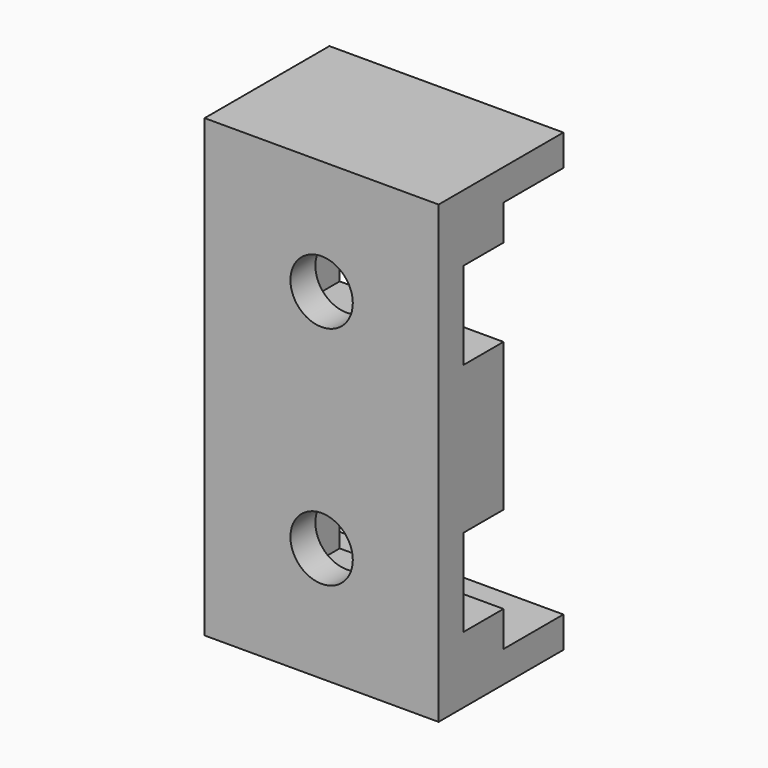
from build123d import *

# Parameters (mm, degrees)
F0_W      = 37.5
F0_H      = 63
F3_DEPTH  = 5
F5_DEPTH  = 8
F6_W      = 37.5
F6_H      = 5
F7_DEPTH  = 25
F8_W      = 37.5
F8_H      = 5
F9_DEPTH  = 25
F1_R      = 5
F10_DEPTH = 5


with BuildPart() as f3:
    # F0 (on Front) → F3 (new body)
    with BuildSketch(Plane.XZ):
        Rectangle(F0_W, F0_H)
    extrude(amount=-F3_DEPTH)

    # F4 (on face) → F5 (join)
    with BuildSketch(Plane(origin=(0, 5, 0), x_dir=(-1, 0, 0), z_dir=(0, 1, 0))):
        Polygon((7.5, 11.838892), (0, 11.838892), (-18.75, 11.838892), (-18.75, -11.838892), (0, -11.838892), (7.5, -11.838892), (7.5, -25.838892), (0, -25.838892), (-18.75, -25.838892), (-18.75, -31.5), (18.75, -31.5), (18.75, 31.5), (-18.75, 31.5), (-18.75, 25.838892), (0, 25.838892), (7.5, 25.838892), align=None)
    extrude(amount=F5_DEPTH)

    # F6 (on Front) → F7 (join)
    with BuildSketch(Plane.XZ):
        with Locations((0, 34)):
            Rectangle(F6_W, F6_H)
    extrude(amount=-F7_DEPTH)

    # F8 (on Front) → F9 (join)
    with BuildSketch(Plane.XZ):
        with Locations((0, -34)):
            Rectangle(F8_W, F8_H)
    extrude(amount=-F9_DEPTH)

    # F1 (on face) → F10 (cut)
    with BuildSketch(Plane.XZ):
        with Locations((0, 18.117641)):
            Circle(F1_R)
        with Locations((0, -18.117641)):
            Circle(F1_R)
    extrude(amount=-F10_DEPTH, mode=Mode.SUBTRACT)


solid = f3.part
